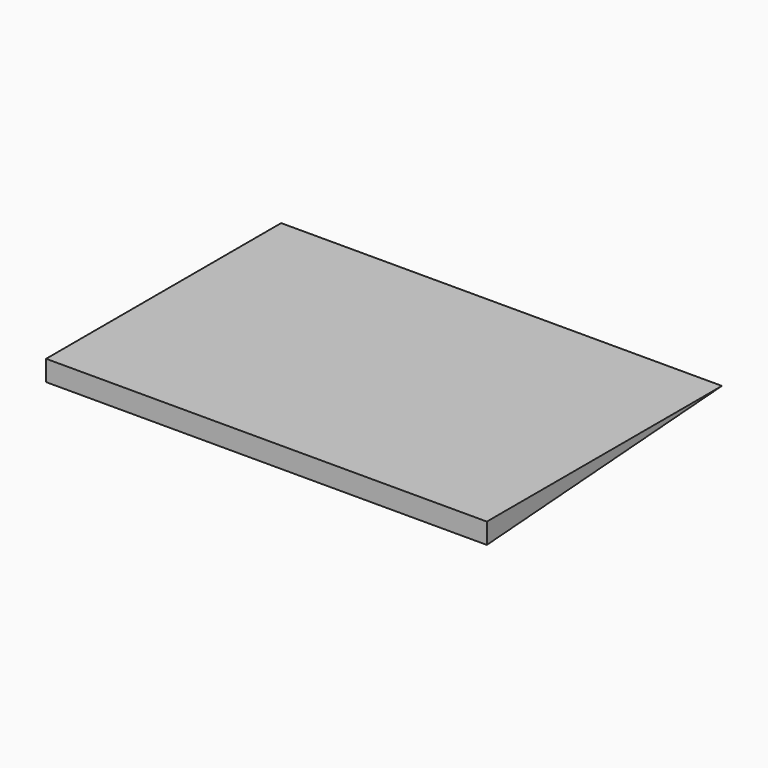
from build123d import *

# Parameters (mm, degrees)
F1_DEPTH      = 1500
F1_DEPTH_BACK = 1500


with BuildPart() as f1:
    # F0 (on Right) → F1 (new body, two sides)
    with BuildSketch(Plane.YZ) as f1_sk:
        Polygon((-1931.938046, 449.058645), (68.061954, 588.912269), (-1931.938046, 588.912269), align=None)
    extrude(amount=F1_DEPTH)
    extrude(f1_sk.sketch, amount=-F1_DEPTH_BACK)


solid = f1.part
